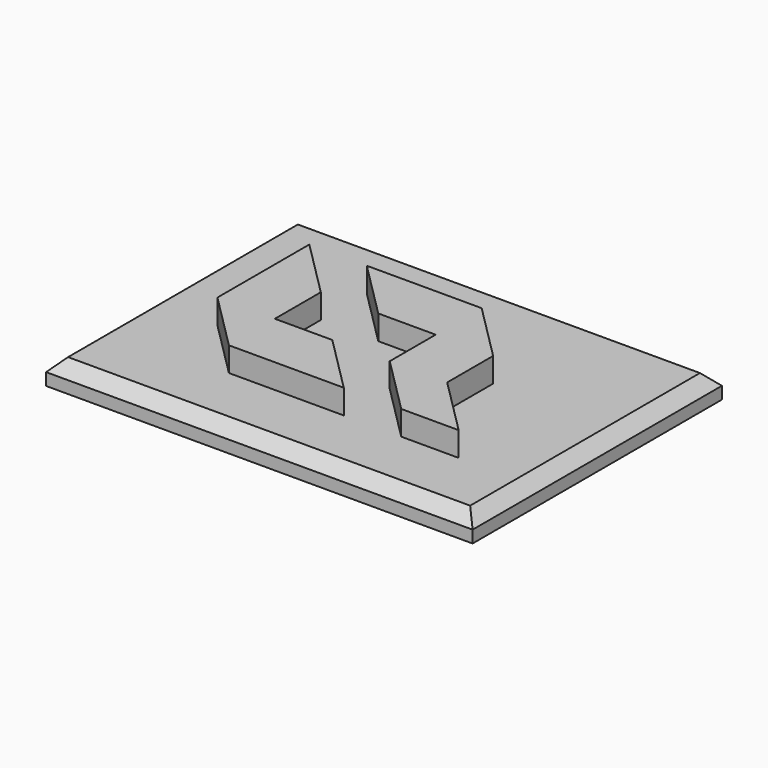
from build123d import *

# Parameters (mm, degrees)
F1_DEPTH = 4.318
F0_W     = 37.719
F0_H     = 27.559
F2_DEPTH = 2.159
F3_SIZE  = 1.0795


with BuildPart() as f1:
    # F0 (on Top) → F1 (new body)
    with BuildSketch(Plane.XY):
        Polygon((-11.915093, 11.556174), (-16.995093, 16.636174), (-16.995093, 11.556174), align=None)
        Polygon((-11.915093, 11.556174), (-16.995093, 11.556174), (-16.995093, 6.476174), align=None)
        Polygon((-11.915093, 6.476174), (-11.915093, 11.556174), (-16.995093, 6.476174), align=None)
        Polygon((-11.915093, 6.476174), (-16.995093, 6.476174), (-11.915093, 1.396174), align=None)
        Polygon((-6.835093, 16.636174), (-11.915093, 16.636174), (-6.835093, 11.556174), align=None)
        Polygon((-1.755093, 11.556174), (-6.835093, 16.636174), (-6.835093, 11.556174), align=None)
        Polygon((-1.755093, 16.636174), (-6.835093, 16.636174), (-1.755093, 11.556174), align=None)
        Polygon((3.324907, 11.556174), (-1.755093, 16.636174), (-1.755093, 11.556174), align=None)
        Polygon((3.324907, 11.556174), (-1.755093, 11.556174), (-1.755093, 6.476174), (3.324907, 1.396174), (8.404907, 1.396174), (3.324907, 6.476174), align=None)
        Polygon((-6.835093, 6.476174), (-11.915093, 6.476174), (-11.915093, 1.396174), (-1.755093, 1.396174), align=None)
    extrude(amount=F1_DEPTH)

    # F0 (on Top) → F2 (join)
    with BuildSketch(Plane.XY):
        with Locations((-4.295093, 9.016174)):
            Rectangle(F0_W, F0_H)
        Polygon((-16.995093, 11.556174), (-16.995093, 16.636174), (-11.915093, 11.556174), (-11.915093, 6.476174), (-6.835093, 6.476174), (-1.755093, 1.396174), (-11.915093, 1.396174), (-16.995093, 6.476174), align=None, mode=Mode.SUBTRACT)
        Polygon((-6.835093, 11.556174), (-11.915093, 16.636174), (-6.835093, 16.636174), (-1.755093, 16.636174), (3.324907, 11.556174), (3.324907, 6.476174), (8.404907, 1.396174), (3.324907, 1.396174), (-1.755093, 6.476174), (-1.755093, 11.556174), align=None, mode=Mode.SUBTRACT)
    extrude(amount=F2_DEPTH)

    # F3
    f3_edges = [f1.edges().sort_by_distance(p)[0] for p in [
        (-4.295093, 22.795674, 2.159),
        (-23.154593, 9.016174, 2.159),
        (14.564407, 9.016174, 2.159),
        (-4.295093, -4.763326, 2.159),
    ]]
    chamfer(f3_edges, length=F3_SIZE)


solid = f1.part
